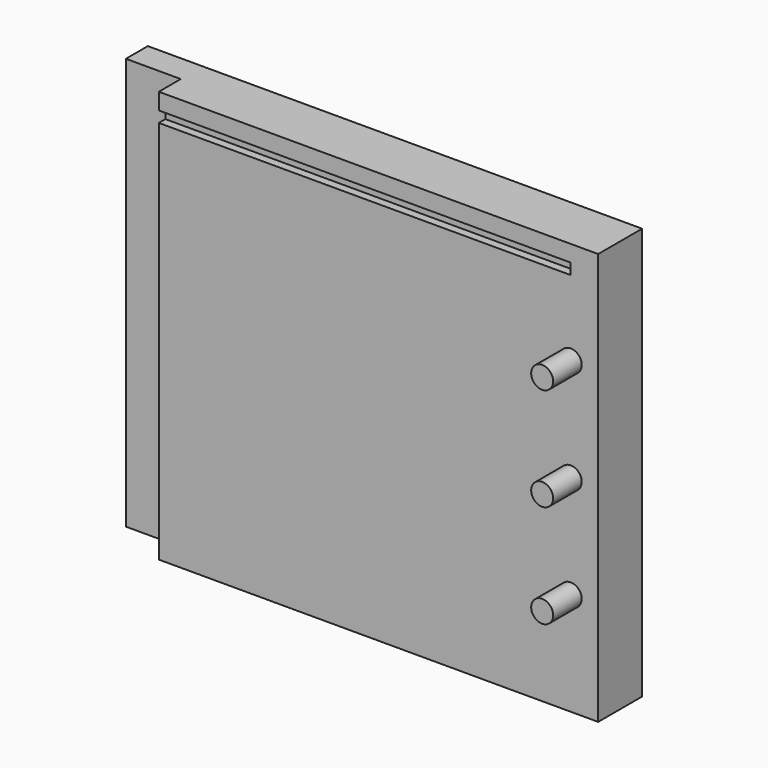
from build123d import *

# Parameters (mm, degrees)
F0_W     = 180
F0_H     = 150
F1_DEPTH = 20
F2_W     = 20
F2_H     = 150
F3_DEPTH = 10
F4_R     = 4
F5_DEPTH = 13
F6_W     = 150
F6_H     = 4
F7_DEPTH = 3


with BuildPart() as f1:
    # F0 (on Front) → F1 (new body)
    with BuildSketch(Plane.XZ):
        with Locations((3.818182, 19.938081)):
            Rectangle(F0_W, F0_H)
    extrude(amount=F1_DEPTH)

    # F2 (on face) → F3 (cut)
    with BuildSketch(Plane.XZ.offset(20)):
        with Locations((-76.181818, 19.938081)):
            Rectangle(F2_W, F2_H)
    extrude(amount=-F3_DEPTH, mode=Mode.SUBTRACT)

    # F4 (on face) → F5 (join)
    with BuildSketch(Plane.XZ.offset(20)):
        with Locations((83.818182, 57.438081)):
            Circle(F4_R)
        with Locations((83.818182, 19.938081)):
            Circle(F4_R)
        with Locations((83.818182, -17.561919)):
            Circle(F4_R)
    extrude(amount=F5_DEPTH)

    # F6 (on face) → F7 (cut)
    with BuildSketch(Plane.XZ.offset(20)):
        with Locations((8.818182, 86.938081)):
            Rectangle(F6_W, F6_H)
    extrude(amount=-F7_DEPTH, mode=Mode.SUBTRACT)


solid = f1.part
